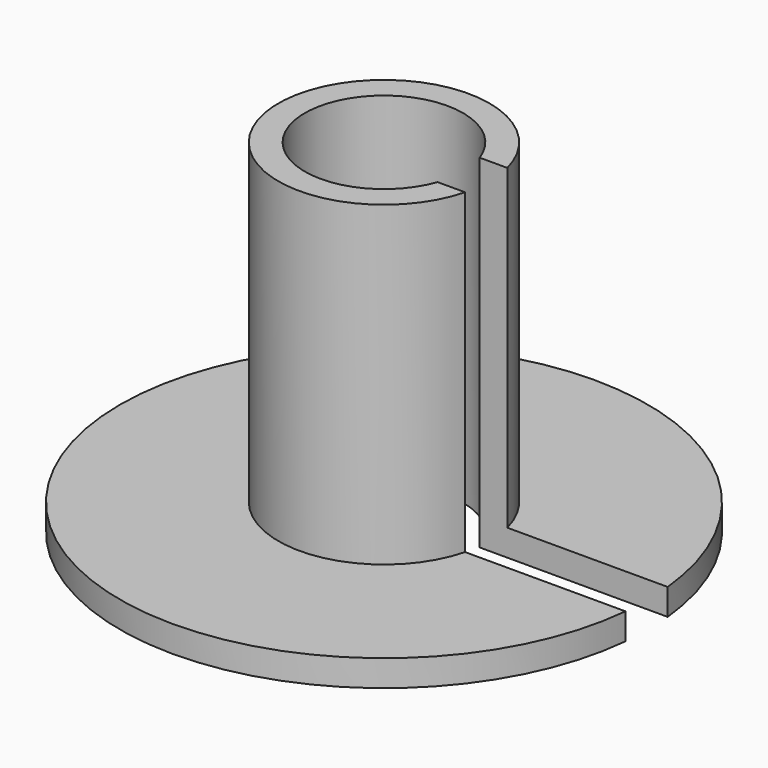
from build123d import *

# Parameters (mm, degrees)
F0_R     = 15.875
F1_DEPTH = 1.5875
F2_R     = 6.35
F3_DEPTH = 19.05
F5_DEPTH = 20.6385


with BuildPart() as f1:
    # F0 (on Top) → F1 (new body)
    with BuildSketch(Plane.XY):
        Circle(F0_R)
    extrude(amount=F1_DEPTH)

    # F2 (on face) → F3 (join)
    with BuildSketch(Plane.XY.offset(1.5875)):
        Circle(F2_R)
    extrude(amount=F3_DEPTH)

    # F4 (on face) → F5 (cut, through all)
    with BuildSketch(Plane.XY.offset(20.6375)):
        with BuildLine():
            Line((15.795426, 1.5875), (4.490128, 1.5875))
            ThreePointArc((4.490128, 1.5875), (-4.7625, 0), (4.490128, -1.5875))
            Line((4.490128, -1.5875), (15.795426, -1.5875))
            ThreePointArc((15.795426, -1.5875), (15.875, 0), (15.795426, 1.5875))
        make_face()
    extrude(amount=-F5_DEPTH, mode=Mode.SUBTRACT)


solid = f1.part
